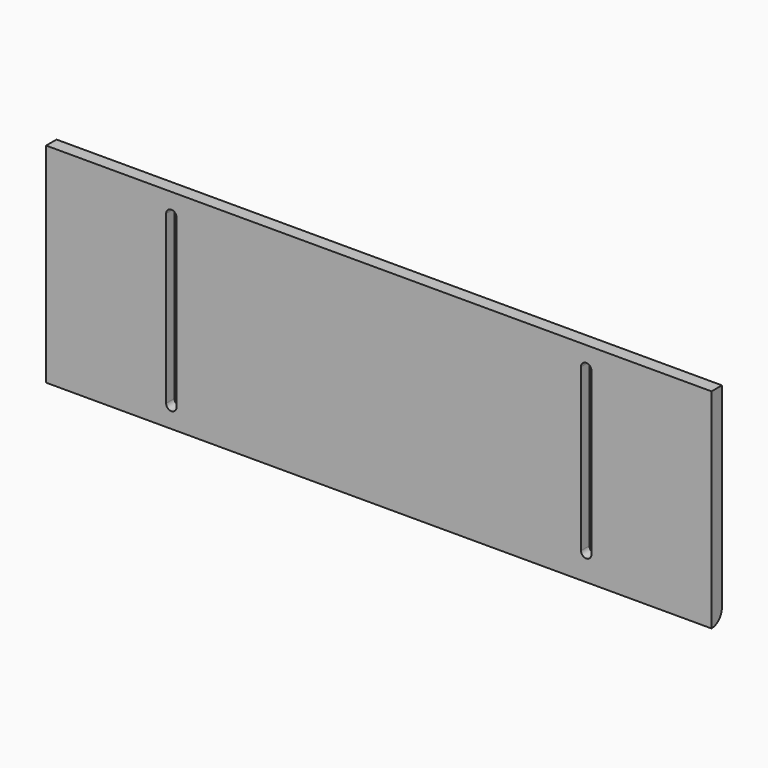
from build123d import *

# Parameters (mm, degrees)
F0_W     = 1619.25
F0_H     = 508
F1_DEPTH = 31.75
F3_DEPTH = 1619.251
F5_DEPTH = 25.4
F6_R     = 25.4
F7_DEPTH = 25.4


with BuildPart() as f1:
    # F0 (on Front) → F1 (new body)
    with BuildSketch(Plane.XZ):
        Rectangle(F0_W, F0_H)
    extrude(amount=F1_DEPTH)

    # F2 (on face) → F3 (cut, through all)
    with BuildSketch(Plane(origin=(-809.625, 0, 0), x_dir=(0, -1, 0), z_dir=(-1, 0, 0))):
        with BuildLine():
            Line((0, -222.25), (0, -254))
            Line((0, -254), (31.75, -254))
            ThreePointArc((31.75, -254), (9.29936, -244.70064), (0, -222.25))
        make_face()
    extrude(amount=-F3_DEPTH, mode=Mode.SUBTRACT)

    # F4 (on face) → F5 (cut)
    with BuildSketch(Plane.XZ.offset(31.75)):
        with BuildLine():
            Line((-492.125, -203.2), (-492.125, 203.2))
            ThreePointArc((-492.125, 203.2), (-504.825, 215.9), (-517.525, 203.2))
            Line((-517.525, 203.2), (-517.525, -203.2))
            ThreePointArc((-517.525, -203.2), (-504.825, -215.9), (-492.125, -203.2))
        make_face()
        with BuildLine():
            Line((517.525, -190.5), (517.525, 203.2))
            ThreePointArc((517.525, 203.2), (504.825, 215.9), (492.125, 203.2))
            Line((492.125, 203.2), (492.125, -190.5))
            ThreePointArc((492.125, -190.5), (504.825, -203.2), (517.525, -190.5))
        make_face()
    extrude(amount=-F5_DEPTH, mode=Mode.SUBTRACT)

    # F6 (on face) → F7 (cut)
    with BuildSketch(Plane(origin=(0, 0, 0), x_dir=(-1, 0, 0), z_dir=(0, 1, 0))):
        with Locations((-771.525, 215.9)):
            Circle(F6_R)
        with Locations((771.525, 215.9)):
            Circle(F6_R)
    extrude(amount=-F7_DEPTH, mode=Mode.SUBTRACT)


solid = f1.part
